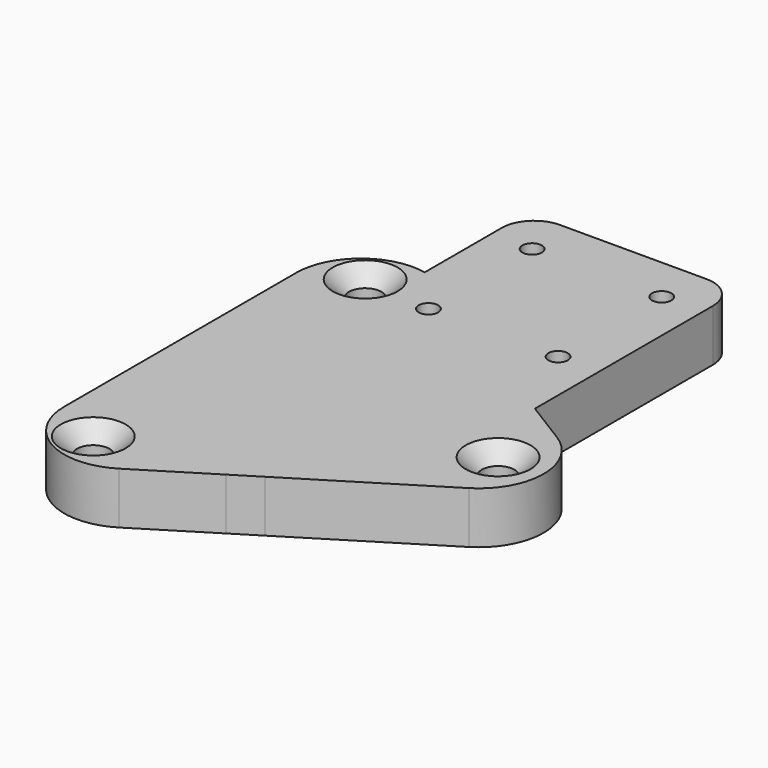
from build123d import *

# Parameters (mm, degrees)
F0_R     = 2.5
F0_R_2   = 1.5
F1_DEPTH = 8
F2_SIZE  = 2.5


with BuildPart() as f1:
    # F0 (on Top) → F1 (new body)
    with BuildSketch(Plane.XY):
        with BuildLine():
            Line((-15.0520368258, -30.8645316162), (-3.9999979791, -24.0150931131))
            Line((-3.9999979791, -24.0150931131), (-3.9999979791, 24.0150931131))
            Line((-3.9999979791, 24.0150931131), (-15.0520368258, 30.8645316162))
            ThreePointArc((-15.0520368258, 30.8645316162), (-16.6190328357, 31.6545182091), (-18.2999979791, 32.1584145265))
            ThreePointArc((-18.2999979791, 32.1584145265), (-26.636561525, 30.1169072918), (-30.3198637023, 22.3645316162))
            Line((-30.3198637023, 22.3645316162), (-30.3198637023, -22.3645316162))
            ThreePointArc((-30.3198637023, -22.3645316162), (-25.1841072835, -31.1017585437), (-15.0520368258, -30.8645316162))
        make_face()
        with Locations((-22.7499979791, -26.2306838291)):
            Circle(F0_R, mode=Mode.SUBTRACT)
        with Locations((-22.7499979791, 26.2306838291)):
            Circle(F0_R, mode=Mode.SUBTRACT)
        with Locations((-11.9999979791, 25)):
            Circle(F0_R_2, mode=Mode.SUBTRACT)
        Polygon((-3.9999979791, -24.0150931131), (2.0209e-06, -21.5361157595), (2.0209e-06, 21.5361157595), (-3.9999979791, 24.0150931131), align=None)
        with BuildLine():
            Line((2.0209e-06, -21.5361157595), (21.0346689823, -8.5))
            ThreePointArc((21.0346689823, -8.5), (25.7668421059, 0), (21.0346689823, 8.5))
            Line((21.0346689823, 8.5), (14.3000020209, 12.6737717203))
            Line((14.3000020209, 12.6737717203), (2.0209e-06, 21.5361157595))
            Line((2.0209e-06, 21.5361157595), (2.0209e-06, -21.5361157595))
        make_face()
        with Locations((18.7500020209, 0)):
            Circle(F0_R, mode=Mode.SUBTRACT)
        with BuildLine():
            Line((2.0209e-06, 51.9963389607), (2.0209e-06, 21.5361157595))
            Line((2.0209e-06, 21.5361157595), (14.3000020209, 12.6737717203))
            Line((14.3000020209, 12.6737717203), (14.3000020209, 46.9963389607))
            ThreePointArc((14.3000020209, 46.9963389607), (12.8355359268, 50.5318728667), (9.3000020209, 51.9963389607))
            Line((9.3000020209, 51.9963389607), (2.0209e-06, 51.9963389607))
        make_face()
        with Locations((8.0000020209, 25)):
            Circle(F0_R_2, mode=Mode.SUBTRACT)
        with Locations((8.0000020209, 45)):
            Circle(F0_R_2, mode=Mode.SUBTRACT)
        Polygon((-3.9999979791, 24.0150931131), (2.0209e-06, 21.5361157595), (2.0209e-06, 51.9963389607), (-3.9999979791, 51.9963389607), align=None)
        with BuildLine():
            Line((-15.0520368258, 30.8645316162), (-3.9999979791, 24.0150931131))
            Line((-3.9999979791, 24.0150931131), (-3.9999979791, 51.9963389607))
            Line((-3.9999979791, 51.9963389607), (-13.2999979791, 51.9963389607))
            ThreePointArc((-13.2999979791, 51.9963389607), (-16.835531885, 50.5318728667), (-18.2999979791, 46.9963389607))
            Line((-18.2999979791, 46.9963389607), (-18.2999979791, 32.1584145265))
            ThreePointArc((-18.2999979791, 32.1584145265), (-16.6190328357, 31.6545182091), (-15.0520368258, 30.8645316162))
        make_face()
        with Locations((-11.9999979791, 45)):
            Circle(F0_R_2, mode=Mode.SUBTRACT)
    extrude(amount=F1_DEPTH)

    # F2
    f2_edges = [f1.edges().sort_by_distance(p)[0] for p in [
        (-25.249998, -26.230684, 8),
        (-25.249998, 26.230684, 8),
        (16.250002, 0, 8),
    ]]
    chamfer(f2_edges, length=F2_SIZE)


solid = f1.part
